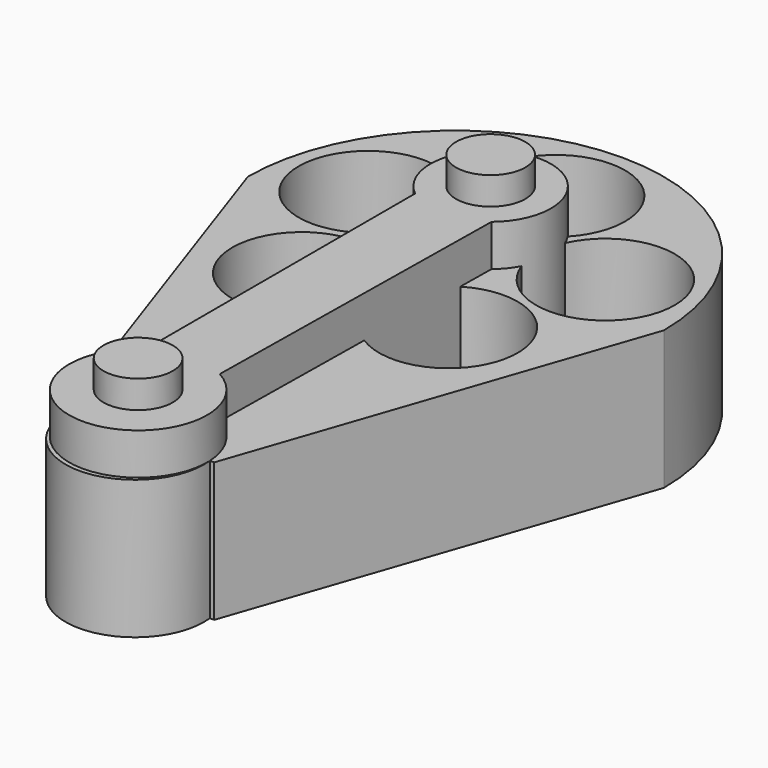
from build123d import *

# Parameters (mm, degrees)
F1_DEPTH  = 25.4
F2_R      = 12.7
F3_DEPTH  = 25.4
F4_R      = 12.7
F5_DEPTH  = 25.4
F6_DEPTH  = 25.4
F8_DEPTH  = 33.02
F9_R      = 6.35
F10_DEPTH = 5.08


with BuildPart() as f1:
    # F0 (on Top) → F1 (new body)
    with BuildSketch(Plane.XY):
        with BuildLine():
            Line((13.423362, -72.093714), (38.1, 0))
            ThreePointArc((38.1, 0), (0, 38.1), (-38.1, 0))
            Line((-38.1, 0), (-13.423362, -72.093714))
            Line((-13.423362, -72.093714), (-12.7, -72.093714))
            Line((-12.7, -72.093714), (-12.622174, -72.093714))
            ThreePointArc((-12.622174, -72.093714), (0, -86.197534), (12.622174, -72.093714))
            Line((12.622174, -72.093714), (12.7, -72.093714))
            Line((12.7, -72.093714), (13.423362, -72.093714))
        make_face()
    extrude(amount=F1_DEPTH)

    # F2 (on face) → F3 (cut)
    with BuildSketch(Plane.XY.offset(25.4)):
        with Locations((0, 22.86)):
            Circle(F2_R)
    extrude(amount=-F3_DEPTH, mode=Mode.SUBTRACT)

    # F4 (on face) → F5 (cut)
    with BuildSketch(Plane.XY.offset(25.4)):
        with Locations((-21.741152, 7.064128)):
            Circle(F4_R)
    extrude(amount=-F5_DEPTH, mode=Mode.SUBTRACT)

    # F4 (on face) → F6 (cut)
    with BuildSketch(Plane.XY.offset(25.4)):
        with Locations((0, 22.86)):
            Circle(F4_R)
        with Locations((-21.741152, 7.064128)):
            Circle(F4_R)
        with Locations((-13.436771, -18.494128)):
            Circle(F4_R)
        with Locations((13.436771, -18.494128)):
            Circle(F4_R)
        with Locations((21.741152, 7.064128)):
            Circle(F4_R)
    extrude(amount=-F6_DEPTH, mode=Mode.SUBTRACT)

    # F7 (on Top) → F8 (join)
    with BuildSketch(Plane.XY):
        with BuildLine():
            Line((-7.010239, -0.563764), (-7.010239, -62.219993))
            ThreePointArc((-7.010239, -62.219993), (0.533631, -85.363339), (6.098, -61.666034))
            Line((6.098, -61.666034), (7.001797, -0.570687))
            ThreePointArc((7.001797, -0.570687), (0.005459, 19.025547), (-7.010239, -0.563764))
        make_face()
    extrude(amount=F8_DEPTH)

    # F9 (on face) → F10 (join)
    with BuildSketch(Plane.XY.offset(33.02)):
        with Locations((0, 7.976549)):
            Circle(F9_R)
        with Locations((0, -72.736099)):
            Circle(F9_R)
    extrude(amount=F10_DEPTH)


solid = f1.part
